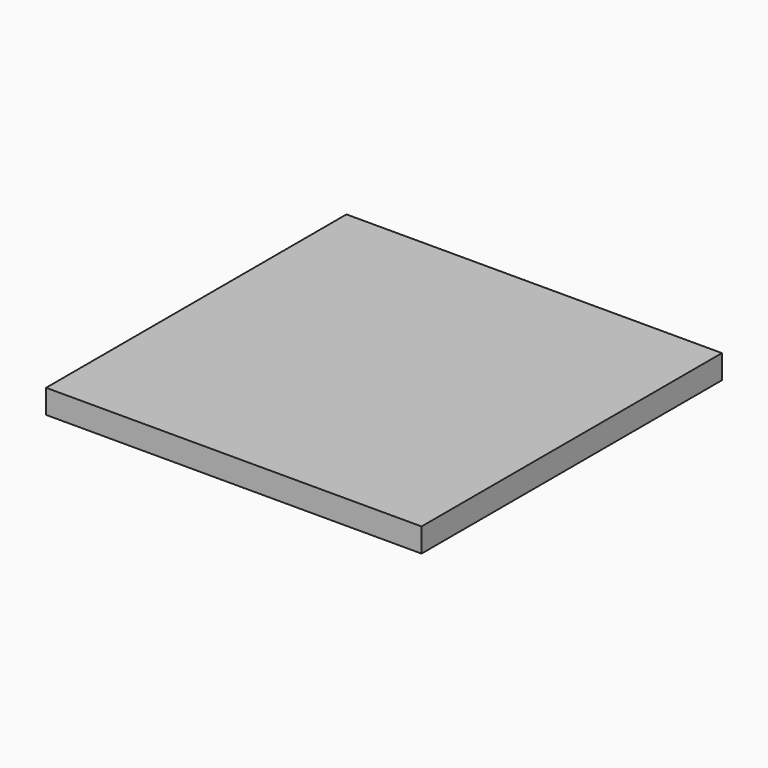
from build123d import *

# Parameters (mm, degrees)
F0_W     = 157
F0_H     = 157
F1_DEPTH = 10
F2_W     = 151
F2_H     = 151
F3_DEPTH = 7


with BuildPart() as f1:
    # F0 (on Top) → F1 (new body)
    with BuildSketch(Plane.XY):
        Rectangle(F0_W, F0_H)
    extrude(amount=F1_DEPTH)

    # F2 (on Top) → F3 (cut)
    with BuildSketch(Plane.XY):
        Rectangle(F2_W, F2_H)
    extrude(amount=F3_DEPTH, mode=Mode.SUBTRACT)


solid = f1.part
